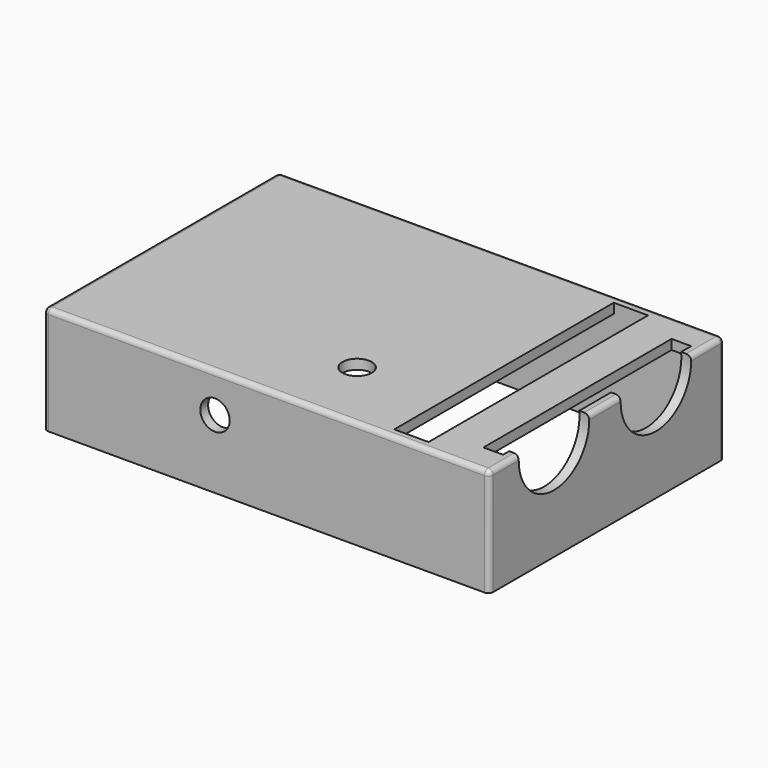
from build123d import *

# Parameters (mm, degrees)
CYLINDER_R                = 3
CYLINDER_DEPTH            = 2
CYLINDER_ROLL_ANGLE       = 90
CYLINDER002_R             = 9
CYLINDER002_DEPTH         = 2
CYLINDER002_PITCH_ANGLE   = 90
CYLINDER003_R             = 9
CYLINDER003_DEPTH         = 2
CYLINDER003_PITCH_ANGLE   = 90
BOX003_W                  = 4
BOX003_H                  = 48
BOX003_DEPTH              = 2
BOX002_W                  = 7
BOX002_H                  = 56
BOX002_DEPTH              = 2
CYLINDER001_R             = 3
CYLINDER001_DEPTH         = 2
BOX001_W                  = 87
BOX001_H                  = 56
BOX001_DEPTH              = 20
BOX_W                     = 91
BOX_H                     = 60
BOX_DEPTH                 = 22
FILLET_R                  = 1
FILLET001_R               = 1
FILLET002_R               = 1
FILLET003_R               = 1
FILLET004_R               = 1
BOX004_W                  = 2
BOX004_H                  = 12
BOX004_DEPTH              = 9
FILLET005_R               = 1
BOX005_W                  = 2
BOX005_H                  = 12
BOX005_DEPTH              = 9
FILLET006_R               = 1
FILLET006_PLACEMENT_ANGLE = -90


with BuildPart() as cilindro:
    # Cylinder → Cylinder (new body)
    with BuildSketch(Plane.XY):
        Circle(CYLINDER_R)
    extrude(amount=CYLINDER_DEPTH)


with BuildPart() as cilindro_1:
    # Cylinder roll: moved
    add(cilindro.part.rotate(Axis((0, 0, 0), (1, 0, 0)), CYLINDER_ROLL_ANGLE))


with BuildPart() as cilindro_2:
    # Cylinder placement: moved
    add(cilindro_1.part.moved(Location((35, 2, 14))))


with BuildPart() as cilindro002:
    # Cylinder002 → Cylinder002 (new body)
    with BuildSketch(Plane.XY):
        Circle(CYLINDER002_R)
    extrude(amount=CYLINDER002_DEPTH)


with BuildPart() as cilindro002_1:
    # Cylinder002 pitch: moved
    add(cilindro002.part.rotate(Axis((0, 0, 0), (0, 1, 0)), CYLINDER002_PITCH_ANGLE))


with BuildPart() as cilindro002_2:
    # Cylinder002 placement: moved
    add(cilindro002_1.part.moved(Location((89, 16.5, 21))))


with BuildPart() as cilindro003:
    # Cylinder003 → Cylinder003 (new body)
    with BuildSketch(Plane.XY):
        Circle(CYLINDER003_R)
    extrude(amount=CYLINDER003_DEPTH)


with BuildPart() as cilindro003_1:
    # Cylinder003 pitch: moved
    add(cilindro003.part.rotate(Axis((0, 0, 0), (0, 1, 0)), CYLINDER003_PITCH_ANGLE))


with BuildPart() as cilindro003_2:
    # Cylinder003 placement: moved
    add(cilindro003_1.part.moved(Location((89, 42.5, 21))))


with BuildPart() as cubo001:
    # Box003 → Box003 (new body)
    with BuildSketch(Plane(origin=(85, 6, 20), x_dir=(1, 0, 0), z_dir=(0, 0, 1))):
        with Locations((2, 24)):
            Rectangle(BOX003_W, BOX003_H)
    extrude(amount=BOX003_DEPTH)


with BuildPart() as cubo:
    # Box002 → Box002 (new body)
    with BuildSketch(Plane(origin=(70, 2, 20), x_dir=(1, 0, 0), z_dir=(0, 0, 1))):
        with Locations((3.5, 28)):
            Rectangle(BOX002_W, BOX002_H)
    extrude(amount=BOX002_DEPTH)


with BuildPart() as fusion:
    # Cylinder001 → Cylinder001 (new body)
    with BuildSketch(Plane(origin=(52, 15, 20), x_dir=(1, 0, 0), z_dir=(0, 0, 1))):
        Circle(CYLINDER001_R)
    extrude(amount=CYLINDER001_DEPTH)

    # Fusion: union Cilindro, Cilindro002, Cilindro003, Cubo001, Cubo
    add(cilindro_2.part)
    add(cilindro002_2.part)
    add(cilindro003_2.part)
    add(cubo001.part)
    add(cubo.part)


with BuildPart() as interior:
    # Box001 → Box001 (new body)
    with BuildSketch(Plane(origin=(2, 2, 0), x_dir=(1, 0, 0), z_dir=(0, 0, 1))):
        with Locations((43.5, 28)):
            Rectangle(BOX001_W, BOX001_H)
    extrude(amount=BOX001_DEPTH)


with BuildPart() as cut001:
    # Box → Box (new body)
    with BuildSketch(Plane.XY):
        with Locations((45.5, 30)):
            Rectangle(BOX_W, BOX_H)
    extrude(amount=BOX_DEPTH)

    # Cut: cut Interior
    add(interior.part, mode=Mode.SUBTRACT)

    # Fillet
    fillet_edges = [cut001.edges().sort_by_distance(p)[0] for p in [
        (0, 0, 11),
    ]]
    fillet(fillet_edges, radius=FILLET_R)

    # Fillet001
    fillet001_edges = [cut001.edges().sort_by_distance(p)[0] for p in [
        (0, 60, 11),
    ]]
    fillet(fillet001_edges, radius=FILLET001_R)

    # Fillet002
    fillet002_edges = [cut001.edges().sort_by_distance(p)[0] for p in [
        (91, 0, 11),
    ]]
    fillet(fillet002_edges, radius=FILLET002_R)

    # Fillet003
    fillet003_edges = [cut001.edges().sort_by_distance(p)[0] for p in [
        (91, 60, 11),
    ]]
    fillet(fillet003_edges, radius=FILLET003_R)

    # Fillet004
    fillet004_edges = [cut001.edges().sort_by_distance(p)[0] for p in [
        (45.5, 0, 22),
    ]]
    fillet(fillet004_edges, radius=FILLET004_R)

    # Cut001: cut Fusion
    add(fusion.part, mode=Mode.SUBTRACT)


with BuildPart() as fillet005:
    # Box004 → Box004 (new body)
    with BuildSketch(Plane(origin=(0, 38.5, 9), x_dir=(1, 0, 0), z_dir=(0, 0, 1))):
        with Locations((1, 6)):
            Rectangle(BOX004_W, BOX004_H)
    extrude(amount=BOX004_DEPTH)

    # Fillet005
    fillet005_edges = [fillet005.edges().sort_by_distance(p)[0] for p in [
        (1, 38.5, 9),
        (1, 38.5, 18),
        (1, 50.5, 9),
        (1, 50.5, 18),
    ]]
    fillet(fillet005_edges, radius=FILLET005_R)


with BuildPart() as fillet006:
    # Box005 → Box005 (new body)
    with BuildSketch(Plane(origin=(0, 38.5, 9), x_dir=(1, 0, 0), z_dir=(0, 0, 1))):
        with Locations((1, 6)):
            Rectangle(BOX005_W, BOX005_H)
    extrude(amount=BOX005_DEPTH)

    # Fillet006
    fillet006_edges = [fillet006.edges().sort_by_distance(p)[0] for p in [
        (1, 38.5, 9),
        (1, 38.5, 18),
        (1, 50.5, 9),
        (1, 50.5, 18),
    ]]
    fillet(fillet006_edges, radius=FILLET006_R)


with BuildPart() as fillet006_1:
    # Fillet006 placement: moved
    add(fillet006.part.moved(Location((-14, 60, 0))).rotate(Axis((-14, 60, 0), (0, 0, 1)), FILLET006_PLACEMENT_ANGLE))


solid = Compound([cut001.part, fillet005.part, fillet006_1.part])
